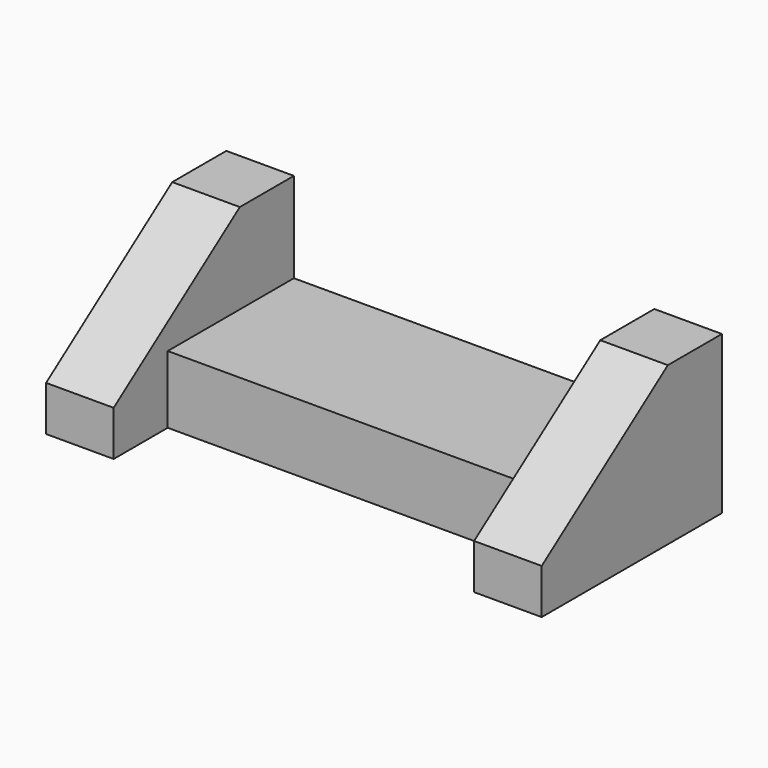
from build123d import *

# Parameters (mm, degrees)
F1_DEPTH = 19.05
F2_W     = 44.45
F2_H     = 19.05
F3_DEPTH = 101.6
F5_DEPTH = 19.05


with BuildPart() as f1:
    # F0 (on Right) → F1 (new body)
    with BuildSketch(Plane.YZ):
        Polygon((-37.864814, 0), (25.635186, 0), (25.635186, 44.45), (6.585186, 44.45), (-37.864814, 12.7), align=None)
    extrude(amount=F1_DEPTH)


with BuildPart() as f3:
    # F2 (on face) → F3 (new body)
    with BuildSketch(Plane.YZ.offset(19.05)):
        with Locations((3.410186, 9.525)):
            Rectangle(F2_W, F2_H)
    extrude(amount=F3_DEPTH)


with BuildPart() as f5:
    # F4 (on face) → F5 (new body)
    with BuildSketch(Plane.YZ.offset(120.65)):
        Polygon((-37.864814, 0), (25.635186, 0), (25.635186, 44.45), (6.585186, 44.45), (-37.864814, 12.7), align=None)
    extrude(amount=F5_DEPTH)


solid = Compound([f1.part, f3.part, f5.part])
